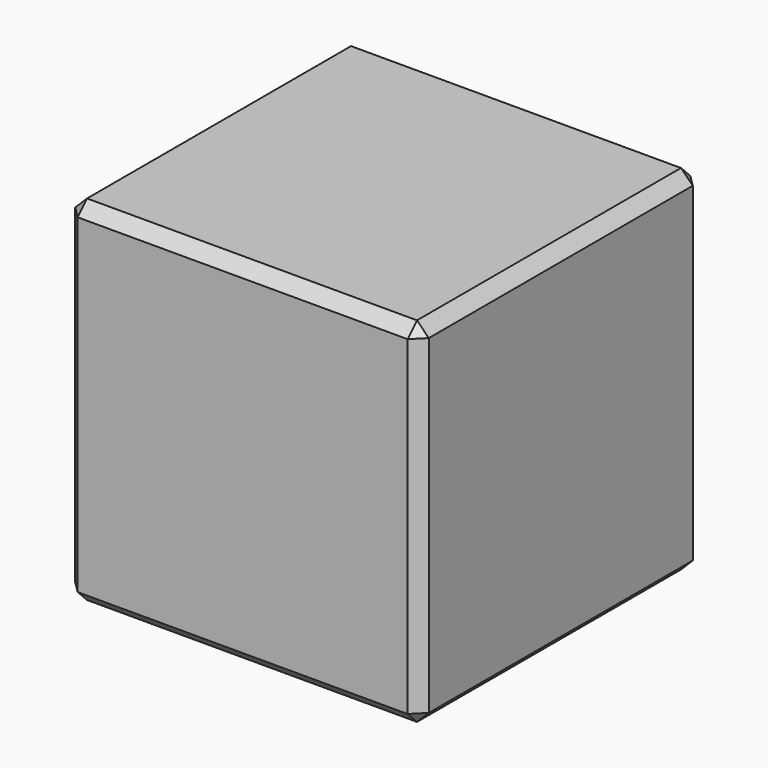
from build123d import *

# Parameters (mm, degrees)
F0_R     = 11
F1_DEPTH = 1
F2_R     = 1
F3_DEPTH = 2
F4_R     = 1
F5_W     = 30
F5_H     = 30
F6_DEPTH = 15
F7_SIZE  = 1


with BuildPart() as f1:
    # F0 (on Right) → F1 (new body)
    with BuildSketch(Plane.YZ):
        Circle(F0_R)
    extrude(amount=F1_DEPTH)

    # F2 (on face) → F3 (join)
    with BuildSketch(Plane.YZ.offset(1)):
        with Locations((-6.276546, 7.073645)):
            Circle(F2_R)
    extrude(amount=F3_DEPTH)

    # F4
    f4_edges = [f1.edges().sort_by_distance(p)[0] for p in [
        (3, -7.276546, 7.073645),
    ]]
    fillet(f4_edges, radius=F4_R)


with BuildPart() as f6:
    # F5 (on Right) → F6 (new body, symmetric)
    with BuildSketch(Plane.YZ):
        Rectangle(F5_W, F5_H)
    extrude(amount=F6_DEPTH, both=True)

    # F7
    f7_edges = [f6.edges().sort_by_distance(p)[0] for p in [
        (0, -15, -15),
        (15, -15, 0),
        (0, -15, 15),
        (-15, -15, 0),
        (-15, 0, -15),
        (15, 0, -15),
        (0, 15, -15),
        (15, 15, 0),
        (15, 0, 15),
        (0, 15, 15),
        (-15, 0, 15),
        (-15, 15, 0),
    ]]
    chamfer(f7_edges, length=F7_SIZE)


solid = Compound([f1.part, f6.part])
